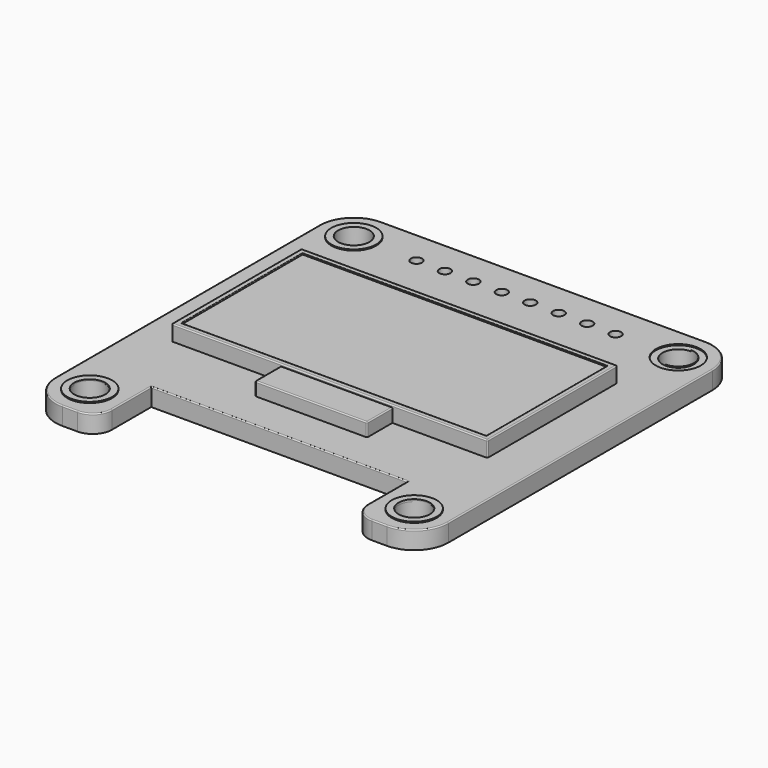
from build123d import *

# Parameters (mm, degrees)
BOX_W             = 27.18
BOX_H             = 13.48
BOX_DEPTH         = 0.2
BOX002_W          = 27.18
BOX002_H          = 13.48
BOX002_DEPTH      = 0.2
BOX001_W          = 28.18
BOX001_H          = 14.48
BOX001_DEPTH      = 1.5
FILLET_R          = 0.05
FILLET001_R       = 0.1
BOX003_W          = 10
BOX003_H          = 10
BOX003_DEPTH      = 1.3
FILLET002_R       = 0.1
CYLINDER011_R     = 0.5
CYLINDER011_DEPTH = 4
CYLINDER010_R     = 0.5
CYLINDER010_DEPTH = 4
CYLINDER009_R     = 0.5
CYLINDER009_DEPTH = 4
CYLINDER008_R     = 0.5
CYLINDER008_DEPTH = 4
CYLINDER007_R     = 0.5
CYLINDER007_DEPTH = 4
CYLINDER005_R     = 0.5
CYLINDER005_DEPTH = 4
CYLINDER006_R     = 0.5
CYLINDER006_DEPTH = 4
CYLINDER004_R     = 0.5
CYLINDER004_DEPTH = 4
CYLINDER012_R     = 1.4
CYLINDER012_DEPTH = 4
CYLINDER016_R     = 2
CYLINDER016_DEPTH = 0.2
CYLINDER017_R     = 1.4
CYLINDER017_DEPTH = 4
CYLINDER018_R     = 2
CYLINDER018_DEPTH = 0.2
CYLINDER019_R     = 1.4
CYLINDER019_DEPTH = 4
CYLINDER020_R     = 2
CYLINDER020_DEPTH = 0.2
CYLINDER021_R     = 1.4
CYLINDER021_DEPTH = 4
CYLINDER022_R     = 2
CYLINDER022_DEPTH = 0.2
CYLINDER_R        = 1.4
CYLINDER_DEPTH    = 4
CYLINDER001_R     = 1.4
CYLINDER001_DEPTH = 4
CYLINDER002_R     = 1.4
CYLINDER002_DEPTH = 4
CYLINDER003_R     = 1.4
CYLINDER003_DEPTH = 4
PAD_DEPTH         = 1.6
FILLET003_R       = 0.1


with BuildPart() as display:
    # Box → Box (new body)
    with BuildSketch(Plane(origin=(-5.2, -19.68, 2.7), x_dir=(1, 0, 0), z_dir=(0, 0, 1))):
        with Locations((13.59, 6.74)):
            Rectangle(BOX_W, BOX_H)
    extrude(amount=BOX_DEPTH)


with BuildPart() as kub002:
    # Box002 → Box002 (new body)
    with BuildSketch(Plane(origin=(-5.2, -19.68, 2.9), x_dir=(1, 0, 0), z_dir=(0, 0, 1))):
        with Locations((13.59, 6.74)):
            Rectangle(BOX002_W, BOX002_H)
    extrude(amount=BOX002_DEPTH)


with BuildPart() as fillet001:
    # Box001 → Box001 (new body)
    with BuildSketch(Plane(origin=(-5.7, -20.18, 1.5), x_dir=(1, 0, 0), z_dir=(0, 0, 1))):
        with Locations((14.09, 7.24)):
            Rectangle(BOX001_W, BOX001_H)
    extrude(amount=BOX001_DEPTH)

    # Cut: cut Kub002
    add(kub002.part, mode=Mode.SUBTRACT)

    # Fillet
    fillet_edges = [fillet001.edges().sort_by_distance(p)[0] for p in [
        (21.98, -12.94, 3),
        (8.39, -6.2, 3),
        (-5.2, -12.94, 3),
        (8.39, -19.68, 3),
    ]]
    fillet(fillet_edges, radius=FILLET_R)

    # Fillet001
    fillet001_edges = [fillet001.edges().sort_by_distance(p)[0] for p in [
        (-5.7, -12.94, 3),
        (8.39, -5.7, 3),
        (8.39, -20.18, 3),
        (22.48, -12.94, 3),
        (-5.7, -20.18, 2.25),
        (-5.7, -5.7, 2.25),
        (22.48, -5.7, 2.25),
        (22.48, -20.18, 2.25),
    ]]
    fillet(fillet001_edges, radius=FILLET001_R)


with BuildPart() as display_frame:
    # Box003 → Box003 (new body)
    with BuildSketch(Plane(origin=(4, -23, 1.5), x_dir=(1, 0, 0), z_dir=(0, 0, 1))):
        with Locations((5, 5)):
            Rectangle(BOX003_W, BOX003_H)
    extrude(amount=BOX003_DEPTH)

    # Fillet002
    fillet002_edges = [display_frame.edges().sort_by_distance(p)[0] for p in [
        (4, -23, 2.15),
        (4, -18, 2.8),
        (14, -23, 2.15),
        (14, -18, 2.8),
        (9, -23, 2.8),
    ]]
    fillet(fillet002_edges, radius=FILLET002_R)

    # Fusion: union Fillet001
    add(fillet001.part)


with BuildPart() as pin008:
    # Cylinder011 → Cylinder011 (new body)
    with BuildSketch(Plane(origin=(17.78, 0, -1), x_dir=(1, 0, 0), z_dir=(0, 0, 1))):
        Circle(CYLINDER011_R)
    extrude(amount=CYLINDER011_DEPTH)


with BuildPart() as pin007:
    # Cylinder010 → Cylinder010 (new body)
    with BuildSketch(Plane(origin=(15.24, 0, -1), x_dir=(1, 0, 0), z_dir=(0, 0, 1))):
        Circle(CYLINDER010_R)
    extrude(amount=CYLINDER010_DEPTH)


with BuildPart() as pin006:
    # Cylinder009 → Cylinder009 (new body)
    with BuildSketch(Plane(origin=(12.7, 0, -1), x_dir=(1, 0, 0), z_dir=(0, 0, 1))):
        Circle(CYLINDER009_R)
    extrude(amount=CYLINDER009_DEPTH)


with BuildPart() as pin005:
    # Cylinder008 → Cylinder008 (new body)
    with BuildSketch(Plane(origin=(10.16, 0, -1), x_dir=(1, 0, 0), z_dir=(0, 0, 1))):
        Circle(CYLINDER008_R)
    extrude(amount=CYLINDER008_DEPTH)


with BuildPart() as pin004:
    # Cylinder007 → Cylinder007 (new body)
    with BuildSketch(Plane(origin=(7.62, 0, -1), x_dir=(1, 0, 0), z_dir=(0, 0, 1))):
        Circle(CYLINDER007_R)
    extrude(amount=CYLINDER007_DEPTH)


with BuildPart() as pin002:
    # Cylinder005 → Cylinder005 (new body)
    with BuildSketch(Plane(origin=(2.54, 0, -1), x_dir=(1, 0, 0), z_dir=(0, 0, 1))):
        Circle(CYLINDER005_R)
    extrude(amount=CYLINDER005_DEPTH)


with BuildPart() as pin003:
    # Cylinder006 → Cylinder006 (new body)
    with BuildSketch(Plane(origin=(5.08, 0, -1), x_dir=(1, 0, 0), z_dir=(0, 0, 1))):
        Circle(CYLINDER006_R)
    extrude(amount=CYLINDER006_DEPTH)


with BuildPart() as pin001:
    # Cylinder004 → Cylinder004 (new body)
    with BuildSketch(Plane.XY.offset(-1)):
        Circle(CYLINDER004_R)
    extrude(amount=CYLINDER004_DEPTH)


with BuildPart() as cylinder012:
    # Cylinder012 → Cylinder012 (new body)
    with BuildSketch(Plane(origin=(-5.588, 0, -1), x_dir=(1, 0, 0), z_dir=(0, 0, 1))):
        Circle(CYLINDER012_R)
    extrude(amount=CYLINDER012_DEPTH)


with BuildPart() as cut005:
    # Cylinder016 → Cylinder016 (new body)
    with BuildSketch(Plane(origin=(-5.588, 0, 1.5), x_dir=(1, 0, 0), z_dir=(0, 0, 1))):
        Circle(CYLINDER016_R)
    extrude(amount=CYLINDER016_DEPTH)

    # Cut005: cut Cylinder012
    add(cylinder012.part, mode=Mode.SUBTRACT)


with BuildPart() as cylinder017:
    # Cylinder017 → Cylinder017 (new body)
    with BuildSketch(Plane(origin=(-5.588, 0, -1), x_dir=(1, 0, 0), z_dir=(0, 0, 1))):
        Circle(CYLINDER017_R)
    extrude(amount=CYLINDER017_DEPTH)


with BuildPart() as cut006:
    # Cylinder018 → Cylinder018 (new body)
    with BuildSketch(Plane(origin=(-5.588, 0, 1.5), x_dir=(1, 0, 0), z_dir=(0, 0, 1))):
        Circle(CYLINDER018_R)
    extrude(amount=CYLINDER018_DEPTH)

    # Cut006: cut Cylinder017
    add(cylinder017.part, mode=Mode.SUBTRACT)


with BuildPart() as cut006_1:
    # Cut006 placement: moved
    add(cut006.part.moved(Location((28.96, 0, 0))))


with BuildPart() as cylinder019:
    # Cylinder019 → Cylinder019 (new body)
    with BuildSketch(Plane(origin=(-5.588, 0, -1), x_dir=(1, 0, 0), z_dir=(0, 0, 1))):
        Circle(CYLINDER019_R)
    extrude(amount=CYLINDER019_DEPTH)


with BuildPart() as cut007:
    # Cylinder020 → Cylinder020 (new body)
    with BuildSketch(Plane(origin=(-5.588, 0, 1.5), x_dir=(1, 0, 0), z_dir=(0, 0, 1))):
        Circle(CYLINDER020_R)
    extrude(amount=CYLINDER020_DEPTH)

    # Cut007: cut Cylinder019
    add(cylinder019.part, mode=Mode.SUBTRACT)


with BuildPart() as cut007_1:
    # Cut007 placement: moved
    add(cut007.part.moved(Location((0, -29.46, 0))))


with BuildPart() as cylinder021:
    # Cylinder021 → Cylinder021 (new body)
    with BuildSketch(Plane(origin=(-5.588, 0, -1), x_dir=(1, 0, 0), z_dir=(0, 0, 1))):
        Circle(CYLINDER021_R)
    extrude(amount=CYLINDER021_DEPTH)


with BuildPart() as cut008:
    # Cylinder022 → Cylinder022 (new body)
    with BuildSketch(Plane(origin=(-5.588, 0, 1.5), x_dir=(1, 0, 0), z_dir=(0, 0, 1))):
        Circle(CYLINDER022_R)
    extrude(amount=CYLINDER022_DEPTH)

    # Cut008: cut Cylinder021
    add(cylinder021.part, mode=Mode.SUBTRACT)


with BuildPart() as cut008_1:
    # Cut008 placement: moved
    add(cut008.part.moved(Location((28.96, -29.46, 0))))


with BuildPart() as cylinder:
    # Cylinder → Cylinder (new body)
    with BuildSketch(Plane(origin=(-5.588, 0, -1), x_dir=(1, 0, 0), z_dir=(0, 0, 1))):
        Circle(CYLINDER_R)
    extrude(amount=CYLINDER_DEPTH)


with BuildPart() as cylinder001:
    # Cylinder001 → Cylinder001 (new body)
    with BuildSketch(Plane(origin=(23.368, -29.464, -1), x_dir=(1, 0, 0), z_dir=(0, 0, 1))):
        Circle(CYLINDER001_R)
    extrude(amount=CYLINDER001_DEPTH)


with BuildPart() as cylinder002:
    # Cylinder002 → Cylinder002 (new body)
    with BuildSketch(Plane(origin=(23.368, 0, -1), x_dir=(1, 0, 0), z_dir=(0, 0, 1))):
        Circle(CYLINDER002_R)
    extrude(amount=CYLINDER002_DEPTH)


with BuildPart() as cylinder003:
    # Cylinder003 → Cylinder003 (new body)
    with BuildSketch(Plane(origin=(-5.588, -29.464, -1), x_dir=(1, 0, 0), z_dir=(0, 0, 1))):
        Circle(CYLINDER003_R)
    extrude(amount=CYLINDER003_DEPTH)


with BuildPart() as fillet003:
    # Sketch → Pad (new body)
    with BuildSketch(Plane.XY):
        with BuildLine():
            Line((26.416, 0), (26.416, -29.464))
            ThreePointArc((23.372, -32.508), (25.524433, -31.616433), (26.416, -29.464))
            Line((23.372, -32.508), (22.02, -32.508))
            ThreePointArc((20.322, -30.81), (20.819333, -32.010667), (22.02, -32.508))
            Line((20.322, -26.412), (20.322, -30.81))
            Line((-2.538, -26.412), (20.322, -26.412))
            Line((-2.538, -30.81), (-2.538, -26.412))
            ThreePointArc((-4.236, -32.508), (-3.035333, -32.010667), (-2.538, -30.81))
            Line((-5.588, -32.508), (-4.236, -32.508))
            ThreePointArc((-8.636, -29.46), (-7.743261, -31.615261), (-5.588, -32.508))
            Line((-8.636, -29.46), (-8.636, 0))
            ThreePointArc((-5.588, 3.048), (-7.743261, 2.155261), (-8.636, 0))
            Line((-5.588, 3.048), (23.368, 3.048))
            ThreePointArc((26.416, 0), (25.523261, 2.155261), (23.368, 3.048))
        make_face()
    extrude(amount=PAD_DEPTH)

    # Cut001: cut Cylinder003
    add(cylinder003.part, mode=Mode.SUBTRACT)

    # Cut002: cut Cylinder002
    add(cylinder002.part, mode=Mode.SUBTRACT)

    # Cut003: cut Cylinder001
    add(cylinder001.part, mode=Mode.SUBTRACT)

    # Cut004: cut Cylinder
    add(cylinder.part, mode=Mode.SUBTRACT)

    # Fusion001: union Cut008
    add(cut008_1.part)

    # Fusion002: union Cut007
    add(cut007_1.part)

    # Cut009: cut Cut006
    add(cut006_1.part, mode=Mode.SUBTRACT)

    # Fusion003: union Cut005
    add(cut005.part)

    # Cut010: cut Pin001
    add(pin001.part, mode=Mode.SUBTRACT)

    # Cut011: cut Pin003
    add(pin003.part, mode=Mode.SUBTRACT)

    # Cut012: cut Pin002
    add(pin002.part, mode=Mode.SUBTRACT)

    # Cut013: cut Pin004
    add(pin004.part, mode=Mode.SUBTRACT)

    # Cut014: cut Pin005
    add(pin005.part, mode=Mode.SUBTRACT)

    # Cut015: cut Pin006
    add(pin006.part, mode=Mode.SUBTRACT)

    # Cut016: cut Pin007
    add(pin007.part, mode=Mode.SUBTRACT)

    # Cut017: cut Pin008
    add(pin008.part, mode=Mode.SUBTRACT)

    # Fillet003
    fillet003_edges = [fillet003.edges().sort_by_distance(p)[0] for p in [
        (26.416, -14.732, 1.6),
        (25.523261, 2.155261, 1.6),
        (25.524433, -31.616433, 1.6),
        (8.89, 3.048, 1.6),
        (22.696, -32.508, 1.6),
        (-7.743261, 2.155261, 1.6),
        (20.819333, -32.010667, 1.6),
        (-8.636, -14.73, 1.6),
        (20.322, -28.611, 1.6),
        (-7.743261, -31.615261, 1.6),
        (8.892, -26.412, 1.6),
        (-4.912, -32.508, 1.6),
        (-2.538, -28.611, 1.6),
        (-3.035333, -32.010667, 1.6),
    ]]
    fillet(fillet003_edges, radius=FILLET003_R)


solid = Compound([display.part, display_frame.part, fillet003.part])
